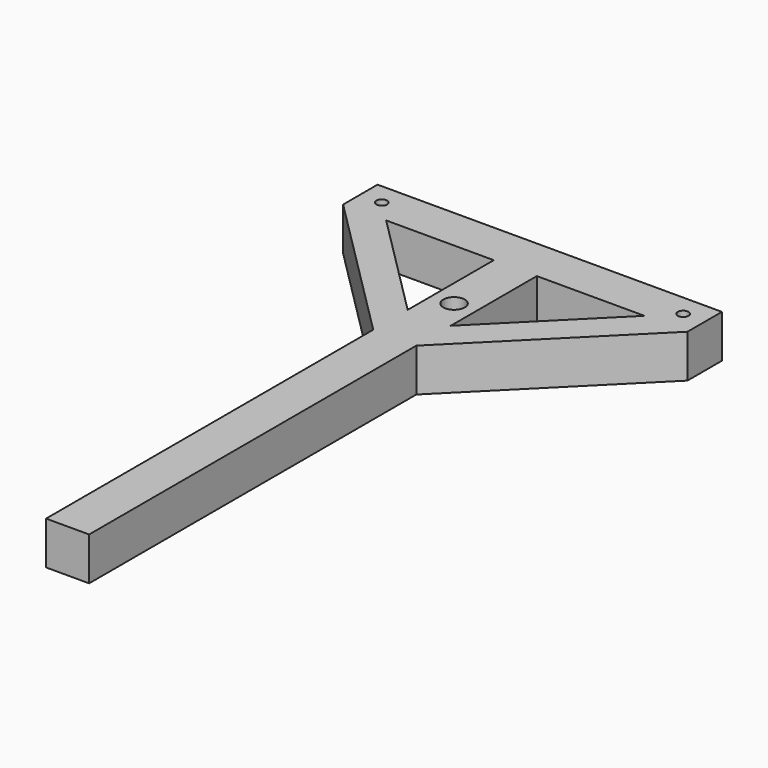
from build123d import *

# Parameters (mm, degrees)
F0_R     = 6.35
F1_DEPTH = 50.8
F3_D     = 25.4


with BuildPart() as f1:
    # F0 (on Top) → F1 (new body)
    with BuildSketch(Plane.XY):
        Polygon((-50.8, 0), (0, 0), (0, 482.6034102367), (177.8, 660.4), (177.8, 711.2034102367), (0, 711.2034102367), (-50.8, 711.2034102367), (-228.6, 711.2034102367), (-228.6, 660.4034102367), (-50.8, 482.6034102367), align=None)
        with Locations((-203.2, 685.8034102367)):
            Circle(F0_R, mode=Mode.SUBTRACT)
        Polygon((-50.8, 533.4034102367), (-177.8, 660.4034102367), (-50.8, 660.4034102367), align=None, mode=Mode.SUBTRACT)
        Polygon((0, 660.4), (127, 660.4), (0, 533.4024358834), align=None, mode=Mode.SUBTRACT)
        with Locations((152.4, 685.8034102367)):
            Circle(F0_R, mode=Mode.SUBTRACT)
    extrude(amount=F1_DEPTH)

    # F3 (through all)
    with Locations(Plane(origin=(0, 0, 0), x_dir=(1, 0, 0), z_dir=(0, 0, -1))):
        with Locations((-25.4, -570.0667500496)):
            Hole(F3_D / 2)


solid = f1.part
